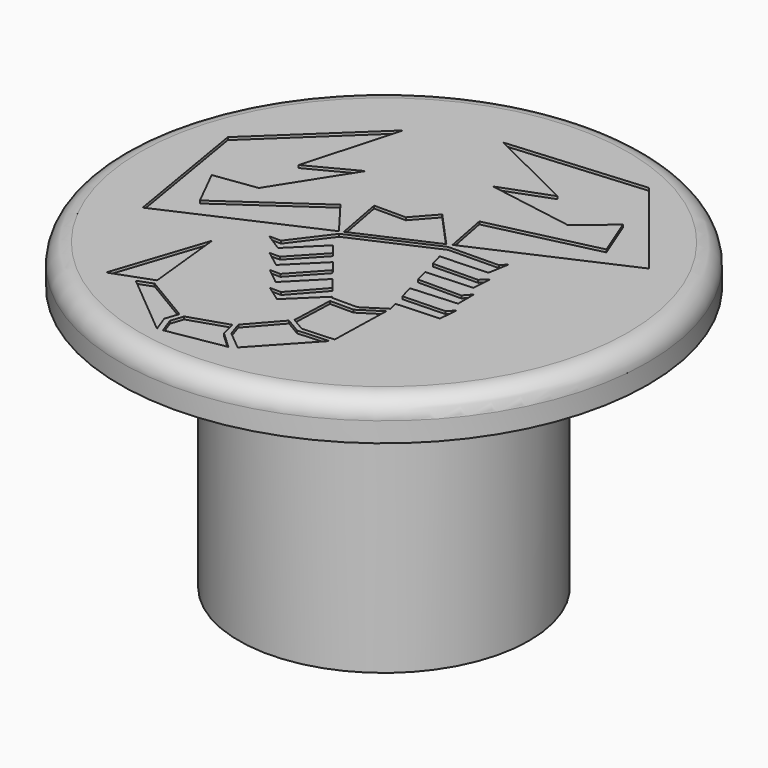
from build123d import *

# Parameters (mm, degrees)
F0_R     = 20
F1_DEPTH = 3
F2_R     = 20.25
F2_R_2   = 20
F3_DEPTH = 3
F5_DEPTH = 0.2
F6_R     = 1.5
F7_R     = 11
F7_R_2   = 8
F8_DEPTH = 20


with BuildPart() as f1:
    # F0 (on Top) → F1 (new body)
    with BuildSketch(Plane.XY):
        Circle(F0_R)
    extrude(amount=F1_DEPTH)

    # F2 (on face) → F3 (cut)
    with BuildSketch(Plane(origin=(0, 0, 0), x_dir=(1, 0, 0), z_dir=(0, 0, -1))):
        Circle(F2_R)
        Circle(F2_R_2, mode=Mode.SUBTRACT)
    extrude(amount=-F3_DEPTH, mode=Mode.SUBTRACT)

    # F4 (on face) → F5 (cut)
    with BuildSketch(Plane.XY.offset(3)):
        Polygon((-6.553545, 6.441406), (-10.126568, 4.57168), (-8.068945, 11.901424), (-15.633037, 4.746201), (-13.924567, -5.449917), (-2.965713, -0.560796), (-5.021182, 2.150405), (-11.850991, -2.621582), (-13.342778, 0.3595), (-10.126568, 0.808129), align=None)
        Polygon((-2.489465, 14.390621), (4.339508, 11.025493), (0.561338, 9.6156), (7.140174, 8.511416), (9.622473, 10.605087), (10.844337, 7.503583), (2.730879, 5.608866), (3.375366, 2.268177), (14.33422, 7.157298), (7.887996, 15.239742), align=None)
        Polygon((-0.990919, 3.307807), (-3.394604, 3.307807), (-2.691304, -0.438372), (3.029758, 2.113989), (0.458553, 4.941968), align=None)
        Polygon((1.963912, -7.359985), (2.05385, -7.474527), (3.964488, -7.474527), (5.622064, -6.417363), (5.452343, -5.734665), (8.692019, -5.561052), (8.814289, -4.11721), (8.372472, -4.618176), (5.173013, -4.720715), (4.874605, -3.637509), (8.333541, -3.403418), (8.333541, -1.885541), (7.824205, -2.463065), (4.551061, -2.463065), (4.272204, -1.450831), (7.780703, -1.253439), (7.887996, 0.240209), (7.347112, -0.279066), (3.964488, -0.333842), (3.693176, 0.651006), (7.265975, 0.808129), (7.54025, 2.389176), (7.140174, 1.96216), (3.320525, 1.903422), (-2.747671, -0.803809), (-4.885467, -3.637509), (-5.783685, -3.637509), (-4.438388, -4.488719), (-2.104728, -2.178321), (-1.484141, -2.968676), (-3.652246, -5.282777), (-4.438388, -5.294866), (-3.170688, -6.251243), (-0.771632, -3.876101), (-0.136667, -4.684767), (-2.260593, -6.990367), (-3.052734, -6.990367), (-1.825474, -7.983332), (0.561338, -5.57372), (1.270919, -6.477416), (-0.771632, -8.778695), (-1.6229, -8.778695), (-0.392072, -9.644426), align=None)
        Polygon((3.985386, -7.864483), (2.199684, -7.864483), (2.073994, -11.069699), (3.102296, -11.682914), (5.501691, -11.554331), (5.622064, -6.820647), align=None)
        Polygon((3.029758, -12.026839), (1.876301, -11.338989), (-0.136667, -13.621443), (0.230974, -14.74811), (1.653607, -15.934166), (5.380382, -11.90087), align=None)
        Polygon((-0.101783, -15.026066), (-0.392072, -13.858383), (-3.294068, -14.80533), (-3.612137, -15.766781), (-3.170688, -16.971571), (1.190486, -16.220126), align=None)
        Polygon((-7.284677, -12.611533), (-8.39267, -13.017515), (-3.574296, -17.034617), (-4.038847, -15.766781), (-3.701848, -14.74811), align=None)
        Polygon((-10.419287, -13.290767), (-7.436289, -12.19776), (-8.068945, -6.186221), align=None)
    extrude(amount=-F5_DEPTH, mode=Mode.SUBTRACT)

    # F6
    f6_edges = [f1.edges().sort_by_distance(p)[0] for p in [
        (-20, 0, 3),
    ]]
    fillet(f6_edges, radius=F6_R)

    # F7 (on face) → F8 (join)
    with BuildSketch(Plane(origin=(0, 0, 0), x_dir=(1, 0, 0), z_dir=(0, 0, -1))):
        Circle(F7_R)
        Circle(F7_R_2, mode=Mode.SUBTRACT)
    extrude(amount=F8_DEPTH)


solid = f1.part
